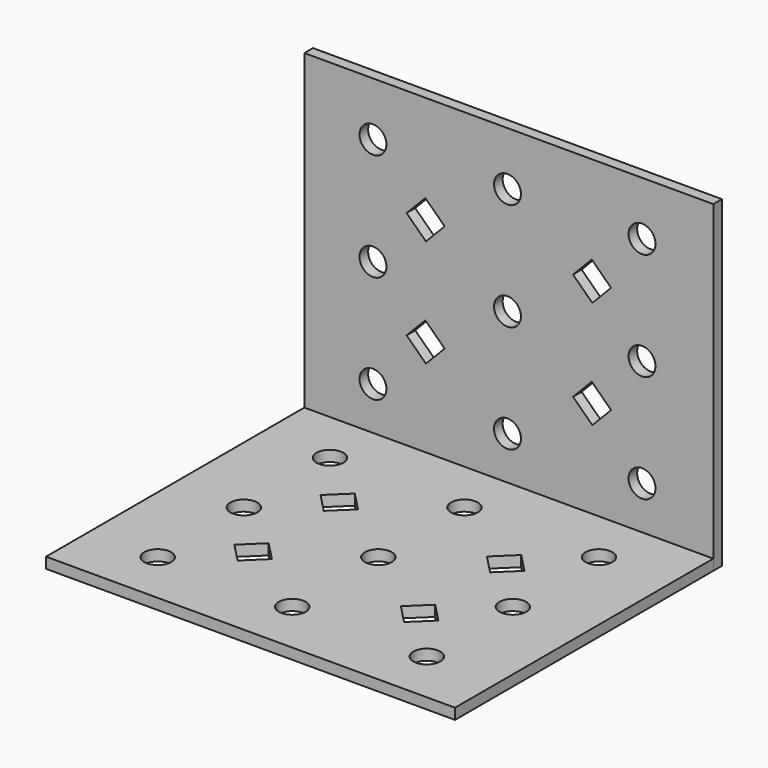
from build123d import *

# Parameters (mm, degrees)
F1_W     = 76
F1_H     = 60
F1_R     = 2.5
F2_DEPTH = 2
F3_ANGLE = 90


with BuildPart() as f2:
    # F1 (on Front) → F2 (new body)
    with BuildSketch(Plane.XZ):
        with Locations((0, 30)):
            Rectangle(F1_W, F1_H)
        with Locations((-25.25, 10)):
            Circle(F1_R, mode=Mode.SUBTRACT)
        with Locations((-0.25, 10)):
            Circle(F1_R, mode=Mode.SUBTRACT)
        Polygon((-15.5264410286, 23.5964410286), (-11.93, 20.1228820573), (-15.4035589714, 16.5264410286), (-19, 20), align=None, mode=Mode.SUBTRACT)
        with Locations((24.75, 10)):
            Circle(F1_R, mode=Mode.SUBTRACT)
        Polygon((15.4035589714, 23.5964410286), (19, 20.1228820573), (15.5264410286, 16.5264410286), (11.93, 20), align=None, mode=Mode.SUBTRACT)
        with Locations((-25.25, 30)):
            Circle(F1_R, mode=Mode.SUBTRACT)
        with Locations((-0.25, 30)):
            Circle(F1_R, mode=Mode.SUBTRACT)
        Polygon((-15.4035589714, 36.5264410286), (-19, 40), (-15.5264410286, 43.5964410286), (-11.93, 40.1228820573), align=None, mode=Mode.SUBTRACT)
        with Locations((-25.25, 50)):
            Circle(F1_R, mode=Mode.SUBTRACT)
        with Locations((-0.25, 50)):
            Circle(F1_R, mode=Mode.SUBTRACT)
        Polygon((15.4035589714, 43.5964410286), (19, 40.1228820573), (15.5264410286, 36.5264410286), (11.93, 40), align=None, mode=Mode.SUBTRACT)
        with Locations((24.75, 30)):
            Circle(F1_R, mode=Mode.SUBTRACT)
        with Locations((24.75, 50)):
            Circle(F1_R, mode=Mode.SUBTRACT)
    extrude(amount=F2_DEPTH)


with BuildPart() as f3_1:
    # F3: copy of F2
    add(f2.part.rotate(Axis((0, -2, 0), (1, 0, 0)), F3_ANGLE))


solid = Compound([f2.part, f3_1.part])
